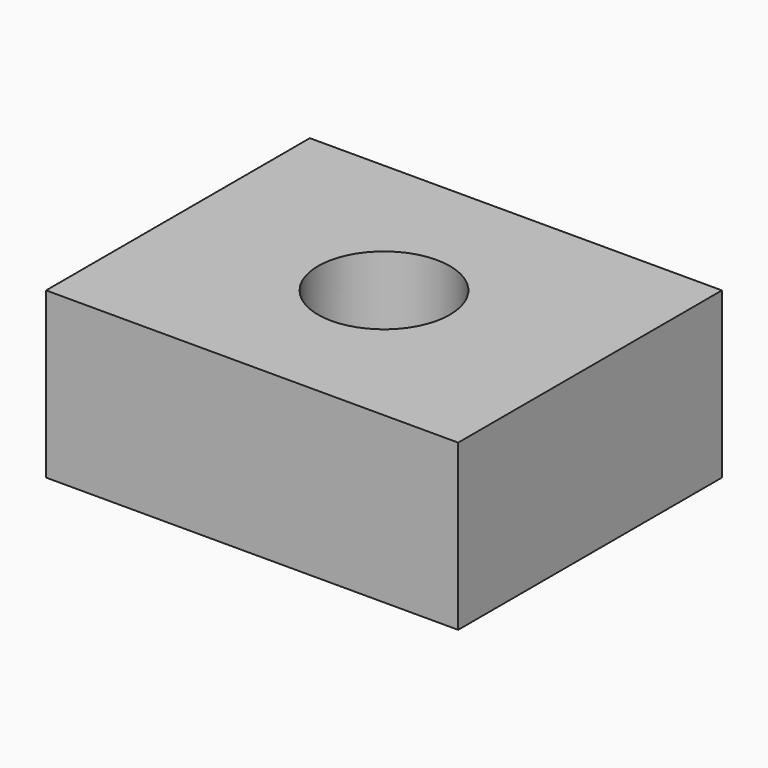
from build123d import *

# Parameters (mm, degrees)
F0_W     = 125
F0_H     = 100
F0_R     = 20
F1_DEPTH = 50
F3_D     = 2.5
F3_DEPTH = 14.2
F3_TIP   = 0.7510757738


with BuildPart() as f1:
    # F0 (on Top) → F1 (new body)
    with BuildSketch(Plane.XY):
        Rectangle(F0_W, F0_H)
        Circle(F0_R, mode=Mode.SUBTRACT)
    extrude(amount=F1_DEPTH)

    # F3
    with Locations(Plane(origin=(0, 0, 0), x_dir=(1, 0, 0), z_dir=(0, 0, -1))):
        with Locations((-52.5, -40), (-52.5, 40), (52.5, 40), (52.5, -40)):
            Hole(F3_D / 2, depth=F3_DEPTH)
            with Locations((0, 0, -(F3_DEPTH + F3_TIP / 2))):  # 118° drill point
                Cone(0, F3_D / 2, F3_TIP, mode=Mode.SUBTRACT)


solid = f1.part
